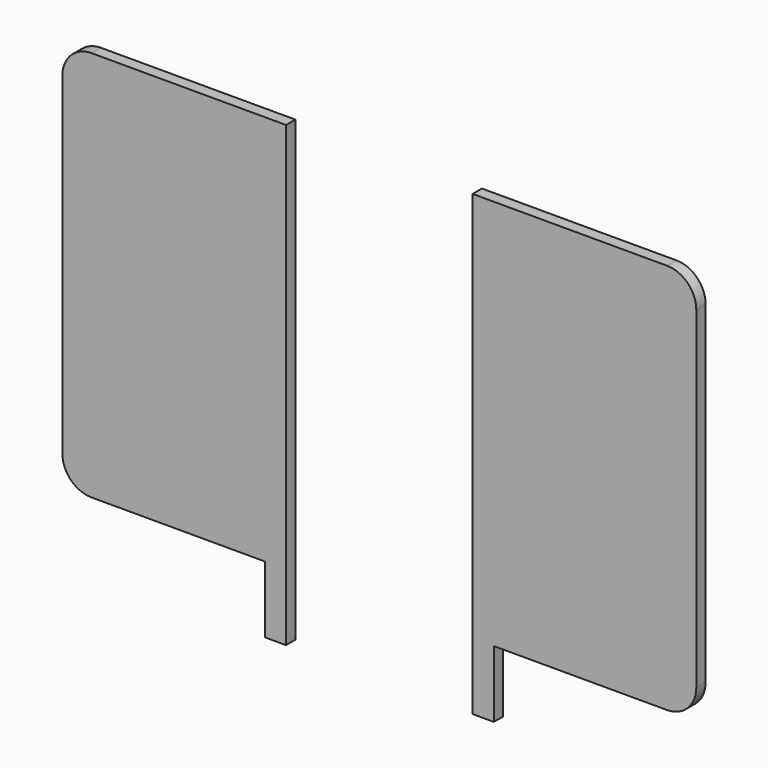
from build123d import *

# Parameters (mm, degrees)
F0_W     = 3.629032
F0_H     = 11.431452
F1_DEPTH = 2


with BuildPart() as f1:
    # F0 (on Front) → F1 (new body)
    with BuildSketch(Plane.XZ):
        with BuildLine():
            Line((0, 59.879035), (-33.286291, 59.879035))
            ThreePointArc((-33.286291, 59.879035), (-36.821825, 58.414569), (-38.286291, 54.879035))
            Line((-38.286291, 54.879035), (-38.286291, -2.076613))
            ThreePointArc((-38.286291, -2.076613), (-36.821825, -5.612147), (-33.286291, -7.076613))
            Line((-33.286291, -7.076613), (-3.629032, -7.076613))
            Line((-3.629032, -7.076613), (0, -7.076613))
            Line((0, -7.076613), (0, 59.879035))
        make_face()
        with Locations((-1.814516, -12.792339)):
            Rectangle(F0_W, F0_H)
        with BuildLine():
            ThreePointArc((70.221778, 54.879035), (68.757312, 58.414569), (65.221778, 59.879035))
            Line((65.221778, 59.879035), (31.935487, 59.879035))
            Line((31.935487, 59.879035), (31.935487, -7.076613))
            Line((31.935487, -7.076613), (35.564519, -7.076613))
            Line((35.564519, -7.076613), (65.221778, -7.076613))
            ThreePointArc((65.221778, -7.076613), (68.757312, -5.612147), (70.221778, -2.076613))
            Line((70.221778, -2.076613), (70.221778, 54.879035))
        make_face()
        with Locations((33.750003, -12.792339)):
            Rectangle(F0_W, F0_H)
    extrude(amount=F1_DEPTH)


solid = f1.part
